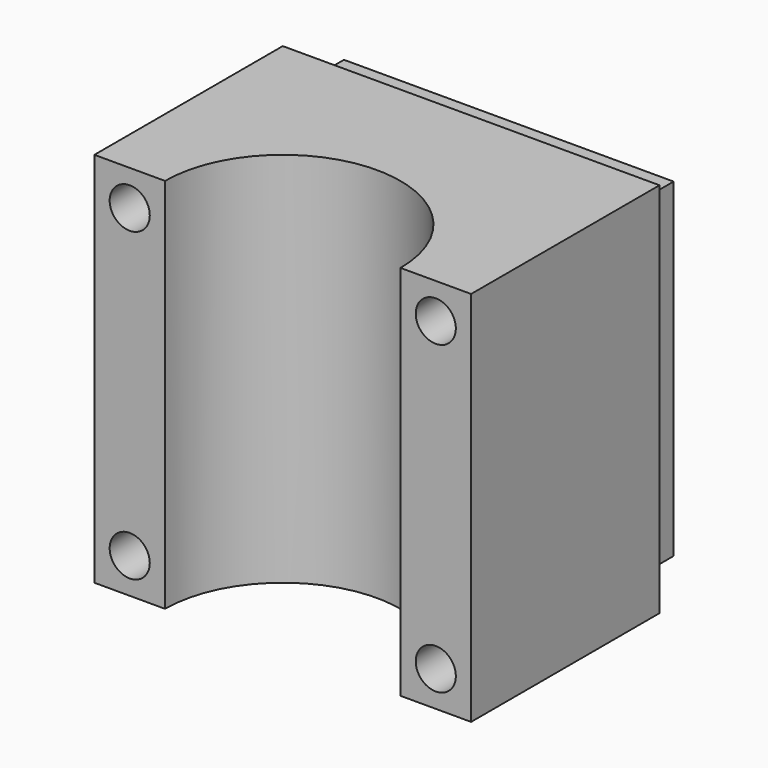
from build123d import *

# Parameters (mm, degrees)
F0_W     = 25.4
F0_H     = 25.4
F1_DEPTH = 19.05
F2_R     = 7.9375
F3_DEPTH = 25.401
F4_W     = 25.4
F4_H     = 25.4
F4_W_2   = 22.225
F4_H_2   = 22.225
F5_DEPTH = 3.175
F6_R     = 1.35255
F7_DEPTH = 12.7


with BuildPart() as f1:
    # F0 (on Front) → F1 (new body)
    with BuildSketch(Plane.XZ):
        Rectangle(F0_W, F0_H)
    extrude(amount=-F1_DEPTH)

    # F2 (on face) → F3 (cut, through all)
    with BuildSketch(Plane.XY.offset(12.7)):
        Circle(F2_R)
    extrude(amount=-F3_DEPTH, mode=Mode.SUBTRACT)

    # F4 (on face) → F5 (cut)
    with BuildSketch(Plane(origin=(0, 19.05, 0), x_dir=(-1, 0, 0), z_dir=(0, 1, 0))):
        Rectangle(F4_W, F4_H)
        Rectangle(F4_W_2, F4_H_2, mode=Mode.SUBTRACT)
    extrude(amount=-F5_DEPTH, mode=Mode.SUBTRACT)

    # F6 (on face) → F7 (cut)
    with BuildSketch(Plane.XZ):
        with Locations((-10.31748, 10.31748)):
            Circle(F6_R)
        with Locations((-10.31748, -10.31748)):
            Circle(F6_R)
        with Locations((10.31748, 10.31748)):
            Circle(F6_R)
        with Locations((10.31748, -10.31748)):
            Circle(F6_R)
    extrude(amount=-F7_DEPTH, mode=Mode.SUBTRACT)


solid = f1.part
